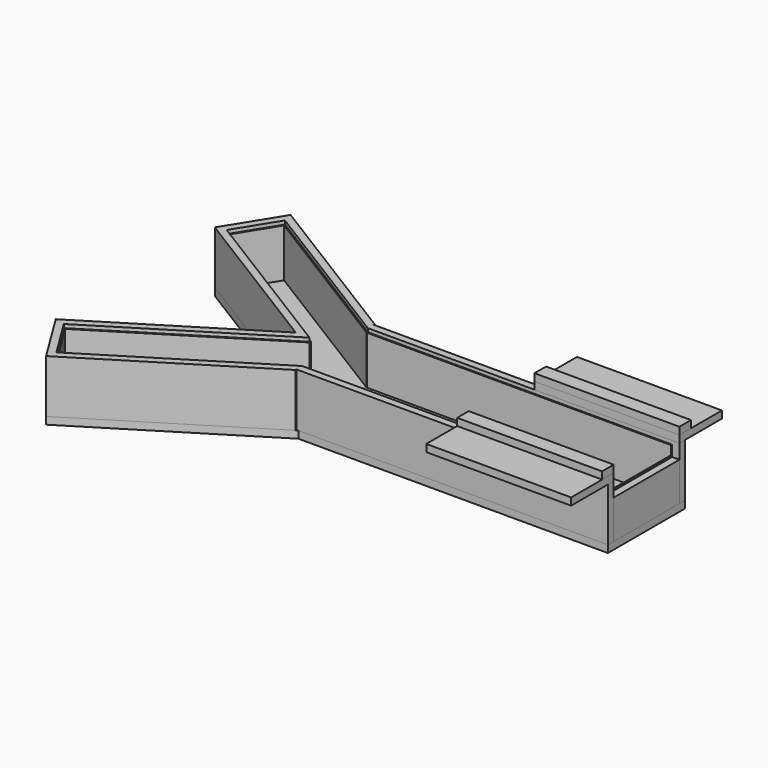
from build123d import *

# Parameters (mm, degrees)
F1_DEPTH  = 3.175
F2_DEPTH  = 3.175
F3_DEPTH  = 3.175
F0_W      = 800.1
F0_H      = 215.9
F4_DEPTH  = 3.175
F6_DEPTH  = 127
F7_DEPTH  = 127
F8_DEPTH  = 127
F9_DEPTH  = 127
F10_DEPTH = 127
F11_DEPTH = 127
F12_DEPTH = 127
F5_W      = 3.175
F5_H      = 209.55
F13_DEPTH = 101.6
F14_DEPTH = 127
F15_W     = 800.1
F15_H     = 215.9
F16_DEPTH = 19.05
F18_DEPTH = 139.7
F17_W     = 19.05
F17_H     = 215.9
F19_DEPTH = 101.6
F20_W     = 381
F20_H     = 120.65
F20_H_2   = 19.05
F21_DEPTH = 19.05
F22_W     = 381
F22_H     = 38.1
F23_DEPTH = 19.05


with BuildPart() as f1:
    # F0 (on Top) → F1 (new body)
    with BuildSketch(Plane.XY):
        Polygon((-120.5430654606, 0), (-53.64166413, 107.95), (-485.44166413, 375.5556053225), (-552.3430654606, 267.6056053225), align=None)
    extrude(amount=F1_DEPTH)


with BuildPart() as f2:
    # F0 (on Top) → F2 (new body)
    with BuildSketch(Plane.XY):
        Polygon((-485.44166413, -375.5556053225), (-53.64166413, -107.95), (-120.5430654606, 0), (-552.3430654606, -267.6056053225), align=None)
    extrude(amount=F2_DEPTH)


with BuildPart() as f3:
    # F0 (on Top) → F3 (new body)
    with BuildSketch(Plane.XY):
        Polygon((-120.5430654606, 0), (-53.64166413, -107.95), (-53.64166413, 107.95), align=None)
    extrude(amount=F3_DEPTH)


with BuildPart() as f4:
    # F0 (on Top) → F4 (new body)
    with BuildSketch(Plane.XY):
        with Locations((346.40833587, 0)):
            Rectangle(F0_W, F0_H)
    extrude(amount=F4_DEPTH)


with BuildPart() as f6:
    # F5 (on face) → F6 (new body)
    with BuildSketch(Plane.XY.offset(3.175)):
        Polygon((-485.44166413, -375.5556053225), (-53.64166413, -107.95), (-55.3141991632, -105.25125), (-484.4154491632, -371.1843202892), (-487.1141991632, -372.8568553225), align=None)
    extrude(amount=F6_DEPTH)


with BuildPart() as f7:
    # F5 (on face) → F7 (new body)
    with BuildSketch(Plane.XY.offset(3.175)):
        Polygon((-550.6705304273, -270.3043553225), (-487.1141991632, -372.8568553225), (-484.4154491632, -371.1843202892), (-547.9717804273, -268.6318202892), align=None)
    extrude(amount=F7_DEPTH)


with BuildPart() as f8:
    # F5 (on face) → F8 (new body)
    with BuildSketch(Plane.XY.offset(3.175)):
        Polygon((-552.3430654606, -267.6056053225), (-550.6705304273, -270.3043553225), (-547.9717804273, -268.6318202892), (-118.8705304273, -2.69875), (-120.5430654606, 0), align=None)
    extrude(amount=F8_DEPTH)


with BuildPart() as f9:
    # F5 (on face) → F9 (new body)
    with BuildSketch(Plane.XY.offset(3.175)):
        Polygon((-547.9717804273, 268.6318202892), (-550.6705304273, 270.3043553225), (-552.3430654606, 267.6056053225), (-120.5430654606, 0), (-118.8705304273, 2.69875), align=None)
    extrude(amount=F9_DEPTH)


with BuildPart() as f10:
    # F5 (on face) → F10 (new body)
    with BuildSketch(Plane.XY.offset(3.175)):
        Polygon((-55.3141991632, 105.25125), (-53.64166413, 107.95), (-485.44166413, 375.5556053225), (-487.1141991632, 372.8568553225), (-484.4154491632, 371.1843202892), align=None)
    extrude(amount=F10_DEPTH)


with BuildPart() as f11:
    # F5 (on face) → F11 (new body)
    with BuildSketch(Plane.XY.offset(3.175)):
        Polygon((-484.4154491632, 371.1843202892), (-487.1141991632, 372.8568553225), (-550.6705304273, 270.3043553225), (-547.9717804273, 268.6318202892), align=None)
    extrude(amount=F11_DEPTH)


with BuildPart() as f12:
    # F5 (on face) → F12 (new body)
    with BuildSketch(Plane.XY.offset(3.175)):
        Polygon((743.28333587, -104.775), (-53.64166413, -104.775), (-53.64166413, -107.95), (746.45833587, -107.95), (746.45833587, -104.775), align=None)
    extrude(amount=F12_DEPTH)


with BuildPart() as f13:
    # F5 (on face) → F13 (new body)
    with BuildSketch(Plane.XY.offset(3.175)):
        with Locations((744.87083587, 0)):
            Rectangle(F5_W, F5_H)
    extrude(amount=F13_DEPTH)


with BuildPart() as f14:
    # F5 (on face) → F14 (new body)
    with BuildSketch(Plane.XY.offset(3.175)):
        Polygon((-53.64166413, 107.95), (-53.64166413, 104.775), (743.28333587, 104.775), (746.45833587, 104.775), (746.45833587, 107.95), align=None)
    extrude(amount=F14_DEPTH)


with BuildPart() as f16:
    # F15 (on face) → F16 (new body)
    with BuildSketch(Plane(origin=(0, 0, 0), x_dir=(1, 0, 0), z_dir=(0, 0, -1))):
        Polygon((765.50833587, -127), (765.50833587, 127), (-48.2172261842, 127), (-491.5989539304, 401.7833155221), (-578.5707756602, 261.4483155221), (-156.7059850987, 0), (-578.5707756602, -261.4483155221), (-491.5989539304, -401.7833155221), (-48.2172261842, -127), align=None)
        with Locations((346.40833587, 0)):
            Rectangle(F15_W, F15_H, mode=Mode.SUBTRACT)
    extrude(amount=F16_DEPTH)


with BuildPart() as f18:
    # F17 (on face) → F18 (new body)
    with BuildSketch(Plane.XY):
        Polygon((746.45833587, -107.95), (-53.64166413, -107.95), (-53.64166413, -127), (-48.2172261842, -127), (765.50833587, -127), (765.50833587, -107.95), align=None)
        Polygon((-53.64166413, -127), (-53.64166413, -107.95), (-485.44166413, -375.5556053225), (-501.63416413, -385.5908155221), (-491.5989539304, -401.7833155221), (-53.64166413, -130.3617647059), align=None)
        Polygon((-568.5355654606, -277.6408155221), (-552.3430654606, -267.6056053225), (-120.5430654606, 0), (-156.7059850987, 0), (-578.5707756602, -261.4483155221), align=None)
        Polygon((-156.7059850987, 0), (-120.5430654606, 0), (-552.3430654606, 267.6056053225), (-568.5355654606, 277.6408155221), (-578.5707756602, 261.4483155221), align=None)
        Polygon((-485.44166413, 375.5556053225), (-53.64166413, 107.95), (-53.64166413, 127), (-53.64166413, 130.3617647059), (-491.5989539304, 401.7833155221), (-501.63416413, 385.5908155221), align=None)
        Polygon((-53.64166413, 127), (-53.64166413, 107.95), (746.45833587, 107.95), (765.50833587, 107.95), (765.50833587, 127), (-48.2172261842, 127), align=None)
        Polygon((-552.3430654606, 267.6056053225), (-485.44166413, 375.5556053225), (-501.63416413, 385.5908155221), (-568.5355654606, 277.6408155221), align=None)
        Polygon((-501.63416413, -385.5908155221), (-485.44166413, -375.5556053225), (-552.3430654606, -267.6056053225), (-568.5355654606, -277.6408155221), align=None)
    extrude(amount=F18_DEPTH)


with BuildPart() as f19:
    # F17 (on face) → F19 (new body)
    with BuildSketch(Plane.XY):
        with Locations((755.98333587, 0)):
            Rectangle(F17_W, F17_H)
    extrude(amount=F19_DEPTH)


with BuildPart() as f21:
    # F20 (on face) → F21 (new body)
    with BuildSketch(Plane.XY.offset(139.7)):
        with Locations((575.00833587, -187.325)):
            Rectangle(F20_W, F20_H)
        with Locations((575.00833587, -117.475)):
            Rectangle(F20_W, F20_H_2)
    extrude(amount=F21_DEPTH)


with BuildPart() as f21b:
    # F20 (on face) → F21, piece 2 (new body)
    with BuildSketch(Plane.XY.offset(139.7)):
        with Locations((575.00833587, 187.325)):
            Rectangle(F20_W, F20_H)
        with Locations((575.00833587, 117.475)):
            Rectangle(F20_W, F20_H_2)
    extrude(amount=F21_DEPTH)


with BuildPart() as f23:
    # F22 (on face) → F23 (new body)
    with BuildSketch(Plane.XY.offset(158.75)):
        with Locations((575.00833587, -127)):
            Rectangle(F22_W, F22_H)
    extrude(amount=F23_DEPTH)


with BuildPart() as f23b:
    # F22 (on face) → F23, piece 2 (new body)
    with BuildSketch(Plane.XY.offset(158.75)):
        with Locations((575.00833587, 127)):
            Rectangle(F22_W, F22_H)
    extrude(amount=F23_DEPTH)


solid = Compound([f1.part, f2.part, f3.part, f4.part, f6.part, f7.part, f8.part, f9.part, f10.part, f11.part, f12.part, f13.part, f14.part, f16.part, f18.part, f19.part, f21.part, f21b.part, f23.part, f23b.part])
